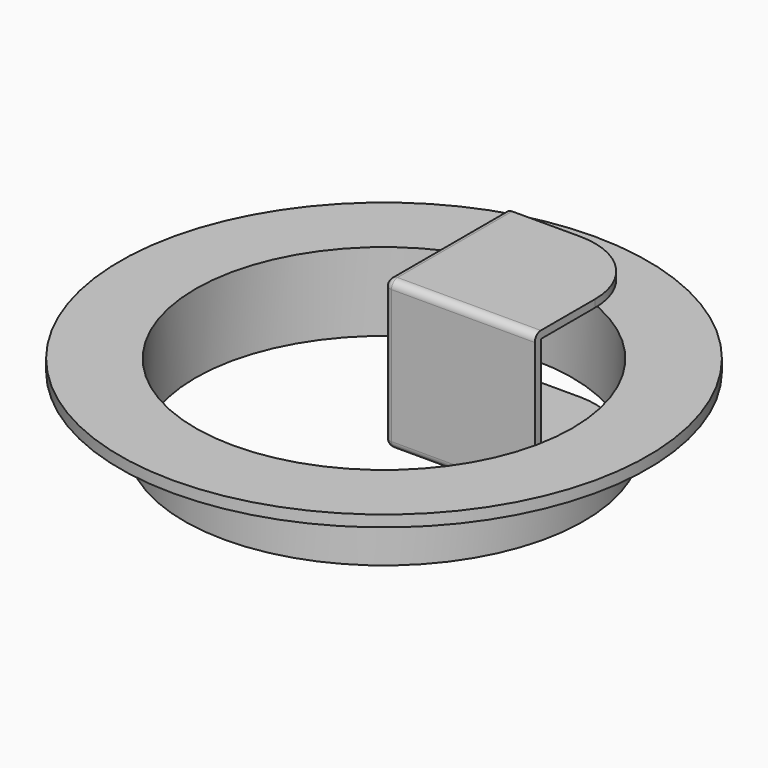
from build123d import *

# Parameters (mm, degrees)
PAD_DEPTH   = 39.5
THICKNESS_T = -2
FILLET_R    = 2


with BuildPart() as edge:
    # Sketch → Pad (new body)
    with BuildSketch(Plane.XY):
        with BuildLine():
            Line((0, 0), (0, 40))
            Line((0, 40), (20, 40))
            ThreePointArc((40, 20), (34.142136, 34.142136), (20, 40))
            Line((40, 20), (40, 0))
            Line((40, 0), (0, 0))
        make_face()
    extrude(amount=PAD_DEPTH)

    # Thickness
    thickness_openings = [edge.faces().sort_by_distance(p)[0] for p in [
        (10, 40, 19.75),
        (34.142136, 34.142136, 19.75),
        (40, 10, 19.75),
    ]]
    offset(amount=THICKNESS_T, openings=thickness_openings)

    # Fillet
    fillet_edges = [edge.edges().sort_by_distance(p)[0] for p in [
        (20, 0, 39.5),
        (0, 20, 39.5),
        (0, 0, 19.75),
        (0, 20, 0),
        (20, 0, 0),
    ]]
    fillet(fillet_edges, radius=FILLET_R)


with BuildPart() as hole:
    # Sketch002 → Revolution (revolve)
    with BuildSketch(Plane.YZ):
        Polygon((-53, 0), (-53, 17.75), (-70, 17.75), (-70, 20.75), (-50, 20.75), (-50, 0), align=None)
    revolve(axis=Axis((0, 0, 0), (0, 0, 1)))


solid = Compound([edge.part, hole.part])
